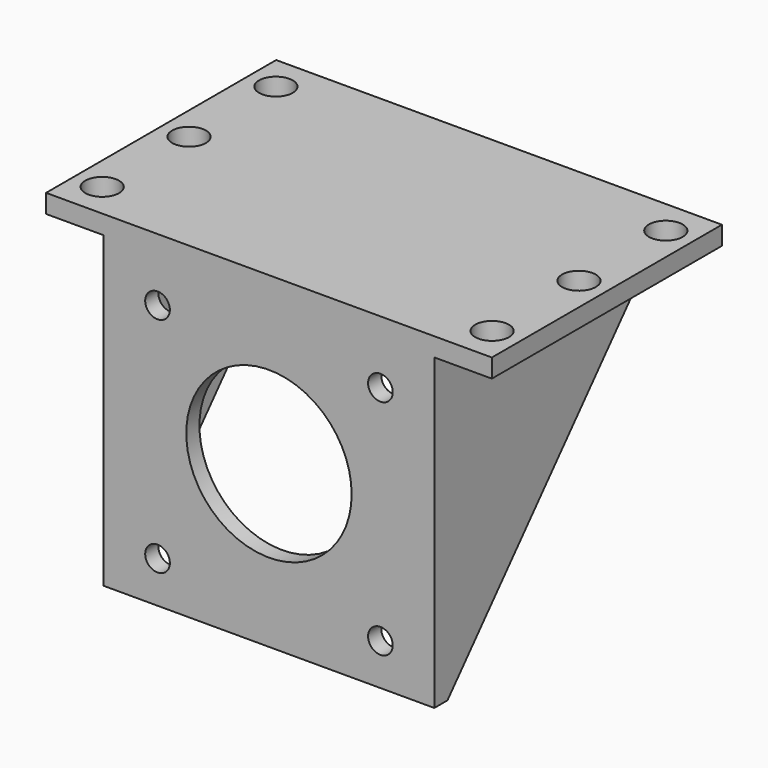
from build123d import *

# Parameters (mm, degrees)
SKETCH_W             = 62
SKETCH_H             = 40
PAD_DEPTH            = 2.59
PAD001_DEPTH         = 23
SKETCH003_R          = 2.3495
HOLE_DEPTH           = 175.977346
SKETCH004_R          = 1.7145
HOLE001_DEPTH        = 20.001
SKETCH005_R          = 11.5
POCKET_DEPTH         = 20.001
SKETCH006_W          = 42.5
SKETCH006_H          = 100
POCKET001_DEPTH      = 100
POCKET001_DEPTH_BACK = -17.714


with BuildPart() as part:
    # Sketch → Pad (new body)
    with BuildSketch(Plane.XY):
        Rectangle(SKETCH_W, SKETCH_H)
    extrude(amount=PAD_DEPTH)

    # Sketch001 → Pad001 (join, symmetric)
    with BuildSketch(Plane.YZ):
        Polygon((-20, -42.926), (-17.714, -42.926), (20, 0), (-20, 2.59), align=None)
    extrude(amount=PAD001_DEPTH, both=True)

    # Sketch003 → Hole (cut, through all)
    with BuildSketch(Plane.XY):
        with Locations((27.1145, 15.1003)):
            Circle(SKETCH003_R)
        with Locations((27.1145, -15.1003)):
            Circle(SKETCH003_R)
        with Locations((27.1145, 0)):
            Circle(SKETCH003_R)
    hole = extrude(amount=HOLE_DEPTH, mode=Mode.SUBTRACT)

    # Mirrored001: Hole across YZ
    add(hole.mirror(Plane.YZ), mode=Mode.SUBTRACT)

    # Sketch004 → Hole001 (cut, through all)
    with BuildSketch(Plane.XZ):
        with Locations((-15.5, -6.1468)):
            Circle(SKETCH004_R)
        with Locations((-15.5, -37.1468)):
            Circle(SKETCH004_R)
        with Locations((15.5, -37.1468)):
            Circle(SKETCH004_R)
        with Locations((15.5, -6.1468)):
            Circle(SKETCH004_R)
    extrude(amount=HOLE001_DEPTH, mode=Mode.SUBTRACT)

    # Sketch005 → Pocket (cut, through all)
    with BuildSketch(Plane.XZ):
        with Locations((0, -20.5)):
            Circle(SKETCH005_R)
    extrude(amount=POCKET_DEPTH, mode=Mode.SUBTRACT)

    # Sketch006 → Pocket001 (cut, two sides)
    with BuildSketch(Plane.XZ) as pocket001_sk:
        with Locations((0, -50)):
            Rectangle(SKETCH006_W, SKETCH006_H)
    extrude(amount=-POCKET001_DEPTH, mode=Mode.SUBTRACT)
    extrude(pocket001_sk.sketch, amount=-POCKET001_DEPTH_BACK, mode=Mode.SUBTRACT)


solid = part.part
